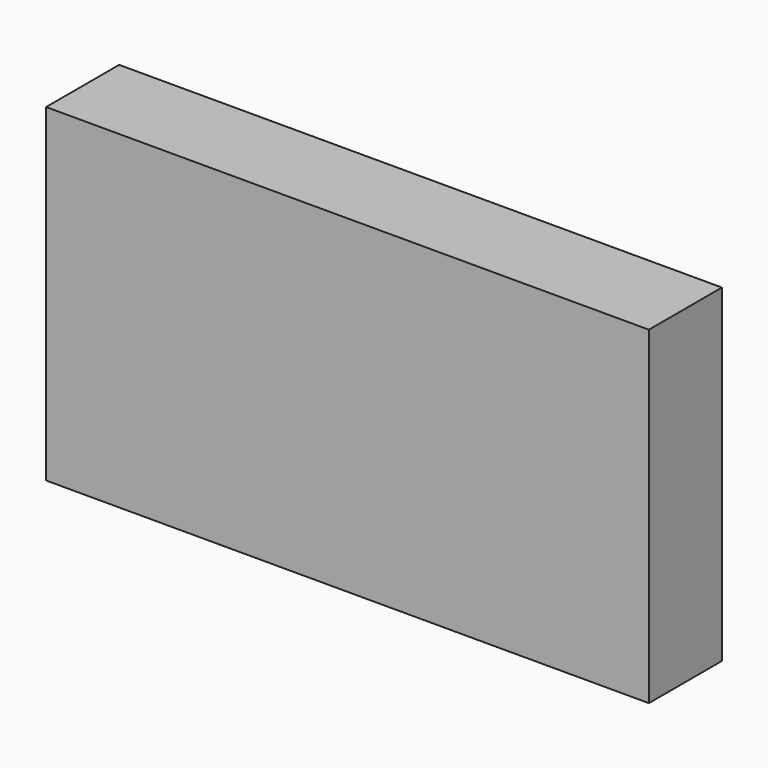
from build123d import *

# Parameters (mm, degrees)
F1_DEPTH = 25


with BuildPart() as f1:
    # F0 (on Front) → F1 (new body)
    with BuildSketch(Plane.XZ):
        Polygon((0, 45), (0, 0), (83, 0), align=None)
        Polygon((-82, 0), (0, 0), (0, 45), align=None)
        Polygon((0, 45), (83, 0), (83, 90), (0, 90), (0, 45.542169), align=None)
        Polygon((-82, 90), (-82, 0), (0, 45), (0, 45.542169), align=None)
        Polygon((0, 90), (-82, 90), (0, 45.542169), align=None)
    extrude(amount=F1_DEPTH)


solid = f1.part
